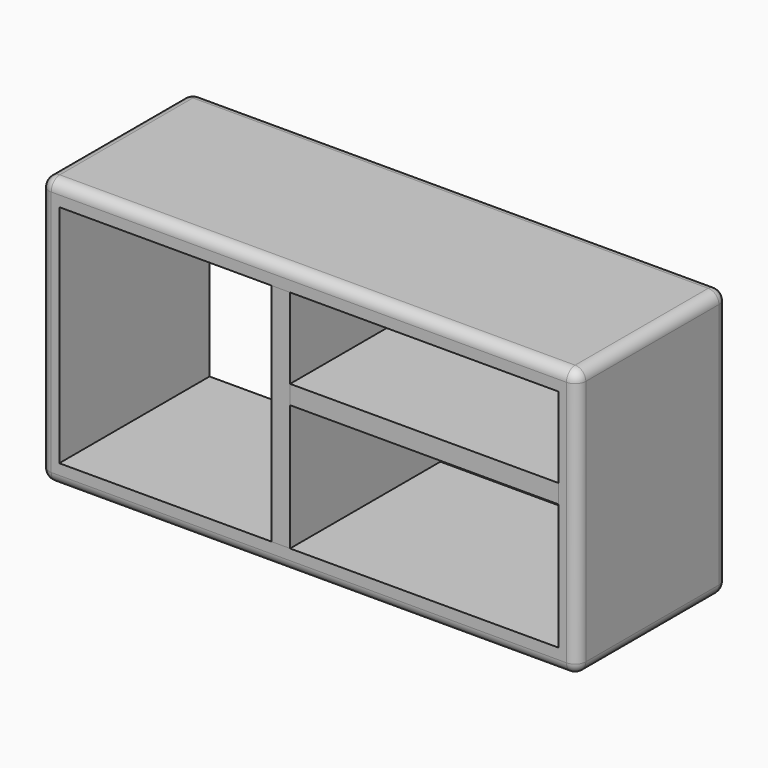
from build123d import *

# Parameters (mm, degrees)
F0_W     = 1000
F0_H     = 500
F0_W_2   = 930
F0_H_2   = 420
F1_DEPTH = 350
F2_R     = 20
F3_W     = 35
F3_H     = 420
F4_DEPTH = 350
F5_W     = 500
F5_H     = 35
F6_DEPTH = 350


with BuildPart() as f1:
    # F0 (on Front) → F1 (new body)
    with BuildSketch(Plane.XZ):
        Rectangle(F0_W, F0_H)
        Rectangle(F0_W_2, F0_H_2, mode=Mode.SUBTRACT)
    extrude(amount=F1_DEPTH)

    # F2
    f2_edges = [f1.edges().sort_by_distance(p)[0] for p in [
        (0, -350, 250),
        (500, -350, 0),
        (0, -350, -250),
        (-500, -350, 0),
        (-500, -175, 250),
        (500, -175, 250),
        (500, -175, -250),
        (-500, -175, -250),
        (-500, 0, 0),
        (0, 0, 250),
        (500, 0, 0),
        (0, 0, -250),
    ]]
    fillet(f2_edges, radius=F2_R)


with BuildPart() as f4:
    # F3 (on face) → F4 (new body)
    with BuildSketch(Plane.XZ.offset(350)):
        with Locations((-52.5, 0)):
            Rectangle(F3_W, F3_H)
    extrude(amount=-F4_DEPTH)


with BuildPart() as f6:
    # F5 (on face) → F6 (new body)
    with BuildSketch(Plane.XZ.offset(350)):
        with Locations((215, 42.5)):
            Rectangle(F5_W, F5_H)
    extrude(amount=-F6_DEPTH)


solid = Compound([f1.part, f4.part, f6.part])
